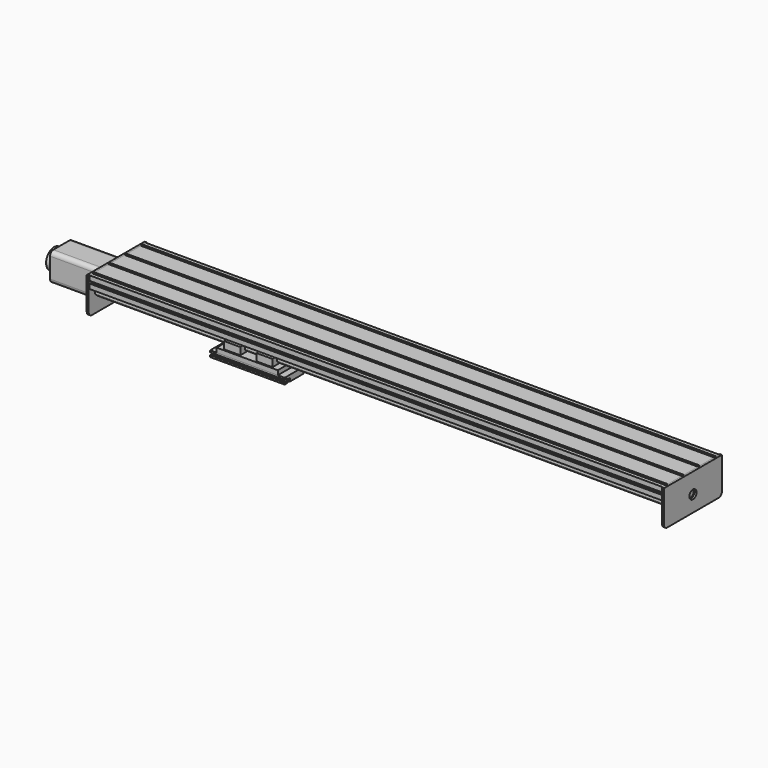
from build123d import *

# Parameters (mm, degrees)
F1_DEPTH  = 1425
F2_DEPTH  = 1425
F3_SIZE   = 1
F4_DEPTH  = 152
F5_DEPTH  = 185
F6_DEPTH  = 40
F11_R     = 11
F12_DEPTH = 5
F13_R     = 10
F11_R_2   = 8
F15_DEPTH = 1425
F16_W     = 70
F16_H     = 70
F17_DEPTH = 135
F18_R     = 10
F19_R     = 7.5
F20_DEPTH = 4
F21_R     = 25
F22_DEPTH = 14


with BuildPart() as f1:
    # F0 (on Right) → F1 (new body)
    with BuildSketch(Plane.YZ):
        Polygon((21.75, 0), (0, 0), (-21.75, 0), (-21.75, -2), (-19.975, -2), (-19.975, -8), (-24.975, -8), (-29.975, -8), (-29.975, -2), (-28.2, -2), (-28.2, 0), (-71.75, 0), (-71.75, -2), (-69.975, -2), (-69.975, -8), (-74.975, -8), (-79.975, -8), (-79.975, -2), (-78.2, -2), (-78.2, 0), (-87.5, 0), (-87.5, -12), (-86, -12), (-86, -11), (-82, -11), (-82, -15), (-82, -19), (-86, -19), (-86, -18), (-87.5, -18), (-87.5, -30), (-68, -30), (-32, -30), (0, -30), (32, -30), (68, -30), (87.5, -30), (87.5, -18), (86, -18), (86, -19), (82, -19), (82, -15), (82, -11), (86, -11), (86, -12), (87.5, -12), (87.5, 0), (78.2, 0), (78.2, -2), (79.975, -2), (79.975, -8), (74.975, -8), (69.975, -8), (69.975, -2), (71.75, -2), (71.75, 0), (28.2, 0), (28.2, -2), (29.975, -2), (29.975, -8), (24.975, -8), (19.975, -8), (19.975, -2), (21.75, -2), align=None)
    extrude(amount=F1_DEPTH)


with BuildPart() as f2:
    # F0 (on Right) → F2 (new body)
    with BuildSketch(Plane.YZ):
        with BuildLine():
            Line((65, -37.5), (68, -30))
            Line((68, -30), (32, -30))
            Line((32, -30), (35, -37.5))
            Line((35, -37.5), (36, -40))
            ThreePointArc((36, -40), (30, -46), (36, -52))
            Line((36, -52), (36, -54.5))
            Line((36, -54.5), (64, -54.5))
            Line((64, -54.5), (64, -52))
            ThreePointArc((64, -52), (70, -46), (64, -40))
            Line((64, -40), (65, -37.5))
        make_face()
        with BuildLine():
            Line((-32, -30), (-68, -30))
            Line((-68, -30), (-65, -37.5))
            Line((-65, -37.5), (-64, -40))
            ThreePointArc((-64, -40), (-70, -46), (-64, -52))
            Line((-64, -52), (-64, -54.5))
            Line((-64, -54.5), (-36, -54.5))
            Line((-36, -54.5), (-36, -52))
            ThreePointArc((-36, -52), (-30, -46), (-36, -40))
            Line((-36, -40), (-35, -37.5))
            Line((-35, -37.5), (-32, -30))
        make_face()
    extrude(amount=F2_DEPTH)

    # F3
    f3_edges = [f2.edges().sort_by_distance(p)[0] for p in [
        (712.5, -64, -54.5),
        (712.5, -36, -54.5),
        (712.5, 36, -54.5),
        (712.5, 64, -54.5),
    ]]
    chamfer(f3_edges, length=F3_SIZE)


with BuildPart() as f4:
    # F0 (on Right) → F4 (new body)
    with BuildSketch(Plane.YZ):
        Polygon((-64, -55.5), (-84, -55.5), (-87.5, -55.5), (-87.5, -66.5), (-12.5, -66.5), (-12.5, -55.5), (-16, -55.5), (-36, -55.5), align=None)
        Polygon((87.5, -55.5), (84, -55.5), (64, -55.5), (36, -55.5), (16, -55.5), (12.5, -55.5), (12.5, -66.5), (87.5, -66.5), align=None)
    extrude(amount=F4_DEPTH)


with BuildPart() as f5:
    # F0 (on Right) → F5 (new body)
    with BuildSketch(Plane.YZ):
        Polygon((-12.5, -66.5), (-87.5, -66.5), (-87.5, -71), (-85, -71), (-85, -69), (-82.075, -69), (-82.075, -79), (-85, -79), (-85, -77), (-87.5, -77), (-87.5, -81.5), (-78.3, -81.5), (-78.3, -79), (-80.075, -79), (-80.075, -73.5), (-75.075, -73.5), (-70.075, -73.5), (-70.075, -79), (-71.85, -79), (-71.85, -81.5), (-28.45, -81.5), (-28.45, -79), (-30.225, -79), (-30.225, -73.5), (-25.225, -73.5), (-20.225, -73.5), (-20.225, -79), (-22, -79), (-22, -81.5), (0, -81.5), (0, -66.5), align=None)
        Polygon((87.5, -71), (87.5, -66.5), (12.5, -66.5), (0, -66.5), (0, -81.5), (22, -81.5), (22, -79), (20.225, -79), (20.225, -73.5), (25.225, -73.5), (30.225, -73.5), (30.225, -79), (28.45, -79), (28.45, -81.5), (71.85, -81.5), (71.85, -79), (70.075, -79), (70.075, -73.5), (75.075, -73.5), (80.075, -73.5), (80.075, -79), (78.3, -79), (78.3, -81.5), (87.5, -81.5), (87.5, -77), (85, -77), (85, -79), (82.075, -79), (82.075, -69), (85, -69), (85, -71), align=None)
    extrude(amount=F5_DEPTH)


with BuildPart() as f6:
    # F0 (on Right) → F6 (new body)
    with BuildSketch(Plane.YZ):
        with BuildLine():
            Line((-64, -40), (-65, -37.5))
            Line((-65, -37.5), (-84, -37.5))
            Line((-84, -37.5), (-84, -55.5))
            Line((-84, -55.5), (-64, -55.5))
            Line((-64, -55.5), (-64, -54.5))
            Line((-64, -54.5), (-64, -52))
            ThreePointArc((-64, -52), (-70, -46), (-64, -40))
        make_face()
        with BuildLine():
            Line((84, -37.5), (65, -37.5))
            Line((65, -37.5), (64, -40))
            ThreePointArc((64, -40), (70, -46), (64, -52))
            Line((64, -52), (64, -54.5))
            Line((64, -54.5), (64, -55.5))
            Line((64, -55.5), (84, -55.5))
            Line((84, -55.5), (84, -37.5))
        make_face()
        with BuildLine():
            Line((-16, -37.5), (-35, -37.5))
            Line((-35, -37.5), (-36, -40))
            ThreePointArc((-36, -40), (-30, -46), (-36, -52))
            Line((-36, -52), (-36, -54.5))
            Line((-36, -54.5), (-36, -55.5))
            Line((-36, -55.5), (-16, -55.5))
            Line((-16, -55.5), (-16, -37.5))
        make_face()
        with BuildLine():
            Line((36, -40), (35, -37.5))
            Line((35, -37.5), (16, -37.5))
            Line((16, -37.5), (16, -55.5))
            Line((16, -55.5), (36, -55.5))
            Line((36, -55.5), (36, -54.5))
            Line((36, -54.5), (36, -52))
            ThreePointArc((36, -52), (30, -46), (36, -40))
        make_face()
    extrude(amount=F6_DEPTH)


with BuildPart() as f4_1:
    # F7: moved
    add(f4.part.moved(Location((16, 0, 0))))


with BuildPart() as f6_1:
    # F8: moved
    add(f6.part.moved(Location((32, 0, 0))))


with BuildPart() as f9_1:
    # F9: copy of F6
    add(f6_1.part.moved(Location((80, 0, 0))))


with BuildPart() as f5_1:
    # F10: moved
    add(f5.part.moved(Location((300, 0, 0))))


with BuildPart() as f4_2:
    # F10: moved
    add(f4_1.part.moved(Location((300, 0, 0))))


with BuildPart() as f9_1_1:
    # F10: moved
    add(f9_1.part.moved(Location((300, 0, 0))))


with BuildPart() as f6_2:
    # F10: moved
    add(f6_1.part.moved(Location((300, 0, 0))))


with BuildPart() as f12:
    # F11 (on Right) → F12 (new body)
    with BuildSketch(Plane.YZ):
        Polygon((90, 0), (0, 0), (-90, 0), (-90, -90), (90, -90), align=None)
        with Locations((0, -50)):
            Circle(F11_R, mode=Mode.SUBTRACT)
    extrude(amount=-F12_DEPTH)

    # F13
    f13_edges = [f12.edges().sort_by_distance(p)[0] for p in [
        (-2.5, -90, -90),
        (-2.5, 90, -90),
    ]]
    fillet(f13_edges, radius=F13_R)


with BuildPart() as f14_1:
    # F14: copy of F12
    add(f12.part.moved(Location((1430, 0, 0))))


with BuildPart() as f15:
    # F11 (on Right) → F15 (new body)
    with BuildSketch(Plane.YZ):
        with Locations((0, -50)):
            Circle(F11_R_2)
    extrude(amount=F15_DEPTH)


with BuildPart() as f17:
    # F16 (on face) → F17 (new body)
    with BuildSketch(Plane(origin=(-5, 0, 0), x_dir=(0, -1, 0), z_dir=(-1, 0, 0))):
        with Locations((0, -50)):
            Rectangle(F16_W, F16_H)
    extrude(amount=F17_DEPTH)

    # F18
    f18_edges = [f17.edges().sort_by_distance(p)[0] for p in [
        (-72.5, -35, -15),
        (-72.5, -35, -85),
        (-72.5, 35, -85),
        (-72.5, 35, -15),
    ]]
    fillet(f18_edges, radius=F18_R)


with BuildPart() as f20:
    # F19 (on face) → F20 (new body)
    with BuildSketch(Plane(origin=(-140, 0, 0), x_dir=(0, -1, 0), z_dir=(-1, 0, 0))):
        with Locations((0, -50)):
            Circle(F19_R)
    extrude(amount=F20_DEPTH)

    # F21 (on face) → F22 (join)
    with BuildSketch(Plane(origin=(-144, 0, 0), x_dir=(0, -1, 0), z_dir=(-1, 0, 0))):
        with Locations((0, -50)):
            Circle(F21_R)
    extrude(amount=F22_DEPTH)


with BuildPart() as f1_1:
    # F23: moved
    add(f1.part.moved(Location((-10, 450, 740))))


with BuildPart() as f2_1:
    # F23: moved
    add(f2.part.moved(Location((-10, 450, 740))))


with BuildPart() as f4_3:
    # F23: moved
    add(f4_2.part.moved(Location((-10, 450, 740))))


with BuildPart() as f5_2:
    # F23: moved
    add(f5_1.part.moved(Location((-10, 450, 740))))


with BuildPart() as f6_3:
    # F23: moved
    add(f6_2.part.moved(Location((-10, 450, 740))))


with BuildPart() as f9_1_2:
    # F23: moved
    add(f9_1_1.part.moved(Location((-10, 450, 740))))


with BuildPart() as f12_1:
    # F23: moved
    add(f12.part.moved(Location((-10, 450, 740))))


with BuildPart() as f14_1_1:
    # F23: moved
    add(f14_1.part.moved(Location((-10, 450, 740))))


with BuildPart() as f15_1:
    # F23: moved
    add(f15.part.moved(Location((-10, 450, 740))))


with BuildPart() as f17_1:
    # F23: moved
    add(f17.part.moved(Location((-10, 450, 740))))


with BuildPart() as f20_1:
    # F23: moved
    add(f20.part.moved(Location((-10, 450, 740))))


solid = Compound([f1_1.part, f2_1.part, f4_3.part, f5_2.part, f6_3.part, f9_1_2.part, f12_1.part, f14_1_1.part, f15_1.part, f17_1.part, f20_1.part])
